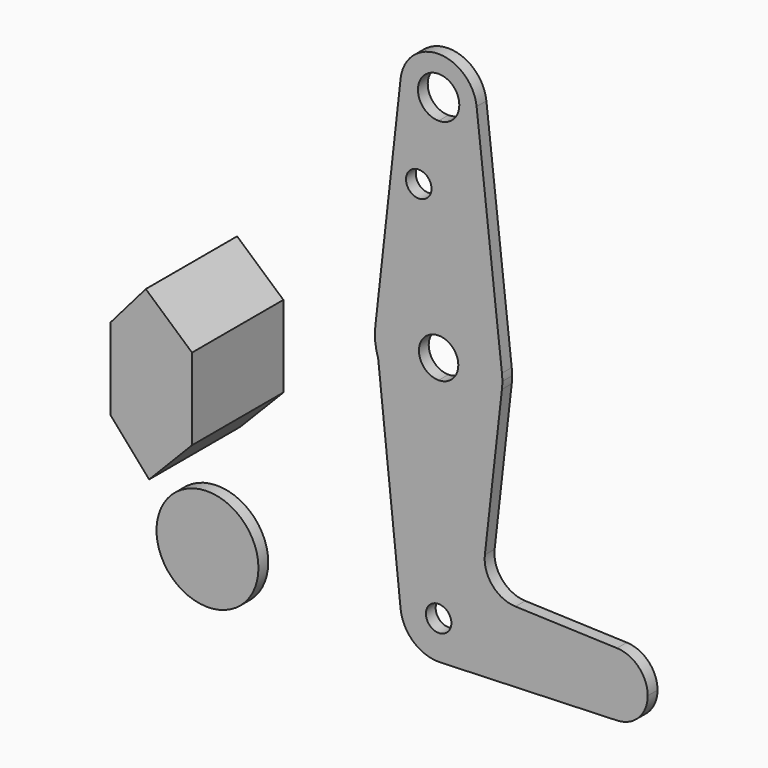
from build123d import *

# Parameters (mm, degrees)
F0_R     = 3.175
F1_DEPTH = 3.048
F0_W     = 20.32
F0_H     = 20.32
F0_R_2   = 12.7
F2_DEPTH = 25.4


with BuildPart() as f1:
    # F0 (on Front) → F1 (new body)
    with BuildSketch(Plane.XZ):
        with BuildLine():
            ThreePointArc((-9.4660211047, 115.3583333333), (-7.0995158286, 107.95), (0, 104.775))
            ThreePointArc((0, 104.775), (6.7351920908, 107.5648079092), (9.525, 114.3))
            ThreePointArc((9.525, 114.3), (9.5102438461, 114.829987725), (9.4660211047, 115.3583333333))
            ThreePointArc((9.4660211047, 115.3583333333), (0, 123.825), (-9.4660211047, 115.3583333333))
        make_face()
        with BuildLine():
            ThreePointArc((5.1530471268, 114.3), (3.6437545671, 110.6562454329), (0, 109.1469528732))
            ThreePointArc((0, 109.1469528732), (-3.6437545671, 117.9437545671), (5.1530471268, 114.3))
        make_face(mode=Mode.SUBTRACT)
        with BuildLine():
            ThreePointArc((9.525, 114.3), (6.7351920908, 107.5648079092), (0, 104.775))
            Line((0, 104.775), (0, 73.025))
            ThreePointArc((0, 73.025), (10.5833333333, 68.9825263809), (15.7767018412, 58.9138888889))
            Line((15.7767018412, 58.9138888889), (9.4660211047, 115.3583333333))
            ThreePointArc((9.4660211047, 115.3583333333), (9.5102438461, 114.829987725), (9.525, 114.3))
        make_face()
        with BuildLine():
            Line((0, 73.025), (0, 104.775))
            ThreePointArc((0, 104.775), (-7.0995158286, 107.95), (-9.4660211047, 115.3583333333))
            Line((-9.4660211047, 115.3583333333), (-15.7767018412, 58.9138888889))
            ThreePointArc((-15.7767018412, 58.9138888889), (-10.5833333333, 68.9825263809), (0, 73.025))
        make_face()
        with Locations((-4.9498714507, 93.6752)):
            Circle(F0_R, mode=Mode.SUBTRACT)
        with BuildLine():
            ThreePointArc((15.7767018412, 58.9138888889), (10.5833333333, 68.9825263809), (0, 73.025))
            Line((0, 73.025), (0, 62.0531648727))
            ThreePointArc((0, 62.0531648727), (3.4670611307, 60.6170611307), (4.9031648727, 57.15))
            ThreePointArc((4.9031648727, 57.15), (3.4670611307, 53.6829388693), (0, 52.2468351273))
            Line((0, 52.2468351273), (0, 41.275))
            ThreePointArc((0, 41.275), (10.5770706221, 45.3118750617), (15.7748262685, 55.3694154892))
            ThreePointArc((15.7748262685, 55.3694154892), (15.8499367824, 56.2582999416), (15.875, 57.15))
            ThreePointArc((15.875, 57.15), (15.8504064101, 58.033312875), (15.7767018412, 58.9138888889))
        make_face()
        with BuildLine():
            Line((0, 62.0531648727), (0, 73.025))
            ThreePointArc((0, 73.025), (-10.5833333333, 68.9825263809), (-15.7767018412, 58.9138888889))
            Line((-15.7767018412, 58.9138888889), (-15.0640300879, 52.1409459466))
            ThreePointArc((-15.0640300879, 52.1409459466), (-9.287004143, 44.2749396487), (0, 41.275))
            Line((0, 41.275), (0, 52.2468351273))
            ThreePointArc((0, 52.2468351273), (-4.9031648727, 57.15), (0, 62.0531648727))
        make_face()
        with BuildLine():
            Line((-15.0640300879, 52.1409459466), (-15.7767018412, 58.9138888889))
            ThreePointArc((-15.7767018412, 58.9138888889), (-15.7878394819, 55.4887506228), (-15.0640300879, 52.1409459466))
        make_face()
        with BuildLine():
            ThreePointArc((0, 41.275), (-9.287004143, 44.2749396487), (-15.0640300879, 52.1409459466))
            Line((-15.0640300879, 52.1409459466), (-9.4727036892, -0.9967496263))
            ThreePointArc((-9.4727036892, -0.9967496263), (-7.0788298889, 6.3730520479), (0, 9.525))
            Line((0, 9.525), (0, 41.275))
        make_face()
        with BuildLine():
            ThreePointArc((15.7748262685, 55.3694154892), (10.5770706221, 45.3118750617), (0, 41.275))
            Line((0, 41.275), (0, 9.525))
            ThreePointArc((0, 9.525), (6.7351920908, 6.7351920908), (9.525, 0))
            ThreePointArc((9.525, 0), (6.9720323139, -6.4897142013), (0.6816634301, -9.5005768229))
            Line((0.6816634301, -9.5005768229), (44.45, -7.9324102062))
            ThreePointArc((44.45, -7.9324102062), (36.2282913266, 0), (44.45, 7.9324102062))
            Line((44.45, 7.9324102062), (19.1355733941, 8.8393955256))
            ThreePointArc((19.1355733941, 8.8393955256), (13.3978074442, 11.5945048447), (11.5202038062, 17.6762143112))
            Line((11.5202038062, 17.6762143112), (15.7748262685, 55.3694154892))
        make_face()
        with BuildLine():
            ThreePointArc((0, 9.525), (-7.0788298889, 6.3730520479), (-9.4727036892, -0.9967496263))
            ThreePointArc((-9.4727036892, -0.9967496263), (-6.3730520479, -7.0788298889), (0, -9.525))
            Line((0, -9.525), (0.6816634301, -9.5005768229))
            ThreePointArc((0.6816634301, -9.5005768229), (6.9720323139, -6.4897142013), (9.525, 0))
            ThreePointArc((9.525, 0), (6.7351920908, 6.7351920908), (0, 9.525))
        make_face()
        with BuildLine():
            ThreePointArc((3.175, 0), (-2.2450640303, -2.2450640303), (0, 3.175))
            ThreePointArc((0, 3.175), (2.2450640303, 2.2450640303), (3.175, 0))
        make_face(mode=Mode.SUBTRACT)
        with BuildLine():
            Line((0.6816634301, -9.5005768229), (0, -9.525))
            ThreePointArc((0, -9.525), (0.3410504081, -9.5188922475), (0.6816634301, -9.5005768229))
        make_face()
        with BuildLine():
            ThreePointArc((52.1032913266, 0), (49.8780506254, 5.5112611943), (44.45, 7.9324102062))
            ThreePointArc((44.45, 7.9324102062), (36.2282913266, 0), (44.45, -7.9324102062))
            ThreePointArc((44.45, -7.9324102062), (49.8780506254, -5.5112611943), (52.1032913266, 0))
        make_face()
    extrude(amount=F1_DEPTH)


with BuildPart() as f1b:
    # F0 (on Front) → F1, piece 2 (new body)
    with BuildSketch(Plane.XZ):
        Polygon((-52.6440143585, 65.4603764415), (-61.4409260452, 55.2660877478), (-41.1209260452, 55.2660877478), align=None)
        with Locations((-51.2809260452, 45.1060877478)):
            Rectangle(F0_W, F0_H)
        Polygon((-41.1209260452, 34.9460877478), (-61.4409260452, 34.9460877478), (-51.8193021417, 23.9499509335), align=None)
    extrude(amount=F1_DEPTH)

    # F2 (add): a face of the model
    f2_faces = [f1b.faces().sort_by_distance(p)[0] for p in [
        (-51.3877546431, -3.048, 44.8827250411),
    ]]
    extrude(f2_faces, amount=F2_DEPTH)


with BuildPart() as f1c:
    # F0 (on Front) → F1, piece 3 (new body)
    with BuildSketch(Plane.XZ):
        with Locations((-57.5922764838, -3.5403952934)):
            Circle(F0_R_2)
    extrude(amount=F1_DEPTH)


solid = Compound([f1.part, f1b.part, f1c.part])
